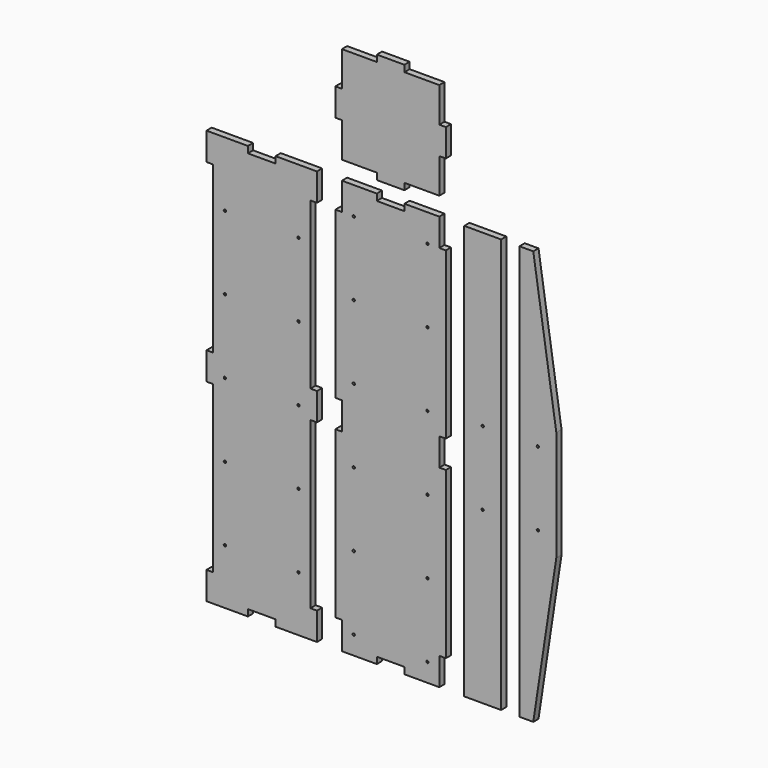
from build123d import *

# Parameters (mm, degrees)
F0_R     = 3.175
F0_W     = 101.6
F0_H     = 1143
F0_W_2   = 76.2
F0_H_2   = 18.034
F0_W_3   = 18.034
F0_H_3   = 76.2
F1_DEPTH = 18.034


with BuildPart() as f1:
    # F0 (on Front) → F1 (new body)
    with BuildSketch(Plane.XZ):
        Polygon((-203.2, 495.3), (-203.2, 571.5), (-317.5, 571.5), (-317.5, 553.466), (-393.7, 553.466), (-393.7, 571.5), (-508, 571.5), (-508, 495.3), (-489.966, 495.3), (-489.966, 38.1), (-508, 38.1), (-508, -38.1), (-489.966, -38.1), (-489.966, -495.3), (-508, -495.3), (-508, -571.5), (-393.7, -571.5), (-393.7, -553.466), (-317.5, -553.466), (-317.5, -571.5), (-203.2, -571.5), (-203.2, -495.3), (-221.234, -495.3), (-221.234, -38.1), (-203.2, -38.1), (-203.2, 38.1), (-221.234, 38.1), (-221.234, 495.3), align=None)
        with Locations((-457.2, -419.1)):
            Circle(F0_R, mode=Mode.SUBTRACT)
        with Locations((-457.2, -215.9)):
            Circle(F0_R, mode=Mode.SUBTRACT)
        with Locations((-254, -419.1)):
            Circle(F0_R, mode=Mode.SUBTRACT)
        with Locations((-254, -215.9)):
            Circle(F0_R, mode=Mode.SUBTRACT)
        with Locations((-457.2, -12.7)):
            Circle(F0_R, mode=Mode.SUBTRACT)
        with Locations((-254, -12.7)):
            Circle(F0_R, mode=Mode.SUBTRACT)
        with Locations((-457.2, 190.5)):
            Circle(F0_R, mode=Mode.SUBTRACT)
        with Locations((-457.2, 393.7)):
            Circle(F0_R, mode=Mode.SUBTRACT)
        with Locations((-254, 190.5)):
            Circle(F0_R, mode=Mode.SUBTRACT)
        with Locations((-254, 393.7)):
            Circle(F0_R, mode=Mode.SUBTRACT)
        Polygon((-38.1, 571.5), (-134.366, 571.5), (-134.366, 495.3), (-152.4, 495.3), (-152.4, 38.1), (-134.366, 38.1), (-134.366, 0), (-134.366, -38.1), (-152.4, -38.1), (-152.4, -495.3), (-134.366, -495.3), (-134.366, -571.5), (-38.1, -571.5), (-38.1, -553.466), (38.1, -553.466), (38.1, -571.5), (134.366, -571.5), (134.366, -495.3), (152.4, -495.3), (152.4, -38.1), (134.366, -38.1), (134.366, 0), (134.366, 38.1), (152.4, 38.1), (152.4, 495.3), (134.366, 495.3), (134.366, 571.5), (38.1, 571.5), (38.1, 553.466), (-38.1, 553.466), align=None)
        with Locations((-101.6, -520.7)):
            Circle(F0_R, mode=Mode.SUBTRACT)
        with Locations((-101.6, -317.5)):
            Circle(F0_R, mode=Mode.SUBTRACT)
        with Locations((-101.6, -114.3)):
            Circle(F0_R, mode=Mode.SUBTRACT)
        with Locations((-101.6, 88.9)):
            Circle(F0_R, mode=Mode.SUBTRACT)
        with Locations((101.6, -520.7)):
            Circle(F0_R, mode=Mode.SUBTRACT)
        with Locations((101.6, -317.5)):
            Circle(F0_R, mode=Mode.SUBTRACT)
        with Locations((101.6, -114.3)):
            Circle(F0_R, mode=Mode.SUBTRACT)
        with Locations((101.6, 88.9)):
            Circle(F0_R, mode=Mode.SUBTRACT)
        with Locations((-101.6, 292.1)):
            Circle(F0_R, mode=Mode.SUBTRACT)
        with Locations((-101.6, 495.3)):
            Circle(F0_R, mode=Mode.SUBTRACT)
        with Locations((101.6, 292.1)):
            Circle(F0_R, mode=Mode.SUBTRACT)
        with Locations((101.6, 495.3)):
            Circle(F0_R, mode=Mode.SUBTRACT)
        with Locations((254, 0)):
            Rectangle(F0_W, F0_H)
        with Locations((254, -101.6)):
            Circle(F0_R, mode=Mode.SUBTRACT)
        with Locations((254, 101.6)):
            Circle(F0_R, mode=Mode.SUBTRACT)
        Polygon((393.7, 571.5), (355.6, 571.5), (355.6, -571.5), (393.7, -571.5), (457.2, -152.4), (457.2, 152.4), align=None)
        with Locations((406.4, -101.6)):
            Circle(F0_R, mode=Mode.SUBTRACT)
        with Locations((406.4, 101.6)):
            Circle(F0_R, mode=Mode.SUBTRACT)
        Polygon((-134.366, 718.566), (-134.366, 622.3), (-38.1, 622.3), (38.1, 622.3), (134.366, 622.3), (134.366, 718.566), (134.366, 794.766), (134.366, 891.032), (38.1, 891.032), (-38.1, 891.032), (-134.366, 891.032), (-134.366, 794.766), align=None)
        with Locations((0, 900.049)):
            Rectangle(F0_W_2, F0_H_2)
        with Locations((-143.383, 756.666)):
            Rectangle(F0_W_3, F0_H_3)
        with Locations((0, 613.283)):
            Rectangle(F0_W_2, F0_H_2)
        with Locations((143.383, 756.666)):
            Rectangle(F0_W_3, F0_H_3)
    extrude(amount=F1_DEPTH)


solid = f1.part
